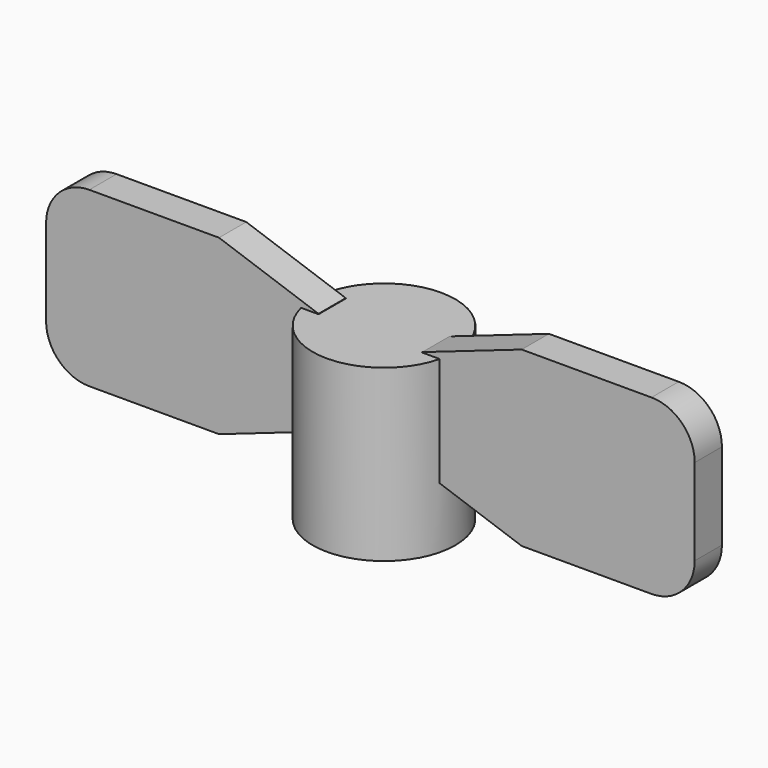
from build123d import *

# Parameters (mm, degrees)
F0_R     = 4.191
F1_DEPTH = 10
F2_R     = 1.651
F3_DEPTH = 5
F6_DEPTH = 2


with BuildPart() as f1:
    # F0 (on Top) → F1 (new body)
    with BuildSketch(Plane.XY):
        Circle(F0_R)
    extrude(amount=F1_DEPTH)

    # F2 (on Top) → F3 (cut)
    with BuildSketch(Plane.XY):
        Circle(F2_R)
    extrude(amount=F3_DEPTH, mode=Mode.SUBTRACT)

    # F5 (on offset) → F6 (join)
    with BuildSketch(Plane.XZ.offset(1)):
        with BuildLine():
            Line((-16.51, 1.89748), (-8.89, 1.89748))
            Line((-8.89, 1.89748), (-8.89, 5.08))
            Line((-8.89, 5.08), (-8.89, 12.05748))
            Line((-8.89, 12.05748), (-16.51, 12.05748))
            ThreePointArc((-16.51, 12.05748), (-18.306051, 11.313531), (-19.05, 9.51748))
            Line((-19.05, 9.51748), (-19.05, 4.43748))
            ThreePointArc((-19.05, 4.43748), (-18.306051, 2.641429), (-16.51, 1.89748))
        make_face()
        Polygon((-8.89, 1.89748), (-3.046233, 3.931247), (-3.046233, 10.023713), (-8.89, 12.05748), (-8.89, 5.08), align=None)
        Polygon((3.046233, 3.931247), (8.89, 1.89748), (8.89, 5.08), (8.89, 12.05748), (3.046233, 10.023713), align=None)
        with BuildLine():
            Line((8.89, 5.08), (8.89, 1.89748))
            Line((8.89, 1.89748), (16.51, 1.89748))
            ThreePointArc((16.51, 1.89748), (18.306051, 2.641429), (19.05, 4.43748))
            Line((19.05, 4.43748), (19.05, 9.51748))
            ThreePointArc((19.05, 9.51748), (18.306051, 11.313531), (16.51, 12.05748))
            Line((16.51, 12.05748), (8.89, 12.05748))
            Line((8.89, 12.05748), (8.89, 5.08))
        make_face()
    extrude(amount=-F6_DEPTH)


solid = f1.part
